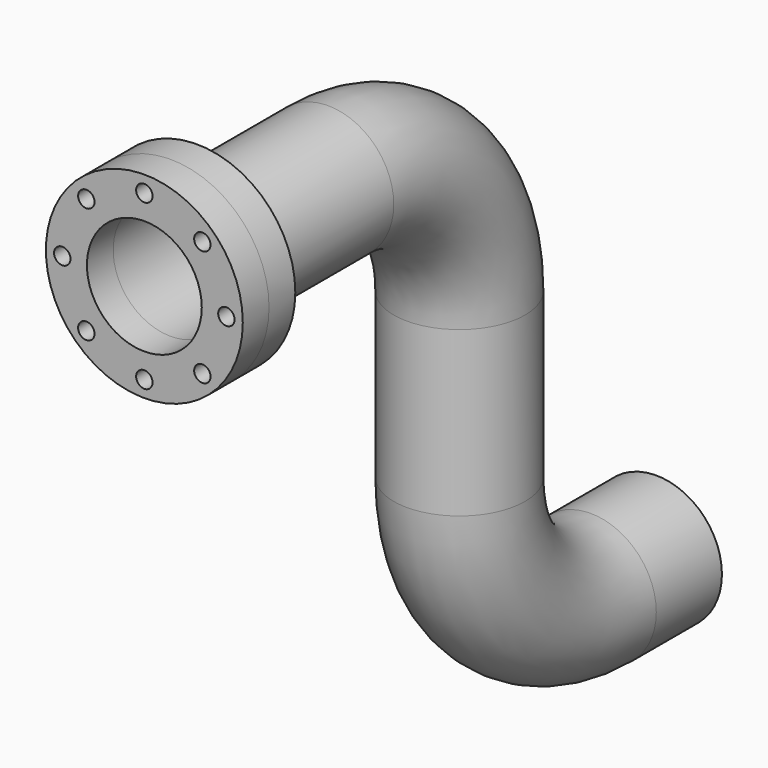
from build123d import *

# Parameters (mm, degrees)
F0_R        = 60
F0_R_2      = 5
F0_R_3      = 35
F1_DEPTH    = 20
F2_R        = 40
F2_R_2      = 35
F1_FACE_R   = 60
F1_FACE_R_2 = 5
F1_FACE_R_3 = 35
F5_DEPTH    = 20


with BuildPart() as f1:
    # F0 (on Front) → F1 (new body)
    with BuildSketch(Plane.XZ):
        Circle(F0_R)
        with Locations((-35.355339, -35.355339)):
            Circle(F0_R_2, mode=Mode.SUBTRACT)
        with Locations((0, -50)):
            Circle(F0_R_2, mode=Mode.SUBTRACT)
        with Locations((35.355339, -35.355339)):
            Circle(F0_R_2, mode=Mode.SUBTRACT)
        with Locations((-50, 0)):
            Circle(F0_R_2, mode=Mode.SUBTRACT)
        with Locations((-35.355339, 35.355339)):
            Circle(F0_R_2, mode=Mode.SUBTRACT)
        Circle(F0_R_3, mode=Mode.SUBTRACT)
        with Locations((50, 0)):
            Circle(F0_R_2, mode=Mode.SUBTRACT)
        with Locations((0, 50)):
            Circle(F0_R_2, mode=Mode.SUBTRACT)
        with Locations((35.355339, 35.355339)):
            Circle(F0_R_2, mode=Mode.SUBTRACT)
    extrude(amount=F1_DEPTH)

    # F4: sweep along a path in F3
    with BuildLine(Plane.YZ) as f4_path:
        Line((0, 0), (100, 0))
        ThreePointArc((100, 0), (170.710678, -29.289322), (200, -100))
        Line((200, -100), (200, -200))
        ThreePointArc((200, -200), (229.289322, -270.710678), (300, -300))
        Line((300, -300), (350, -300))
    # F2 (on Front) → F4 (sweep)
    with BuildSketch(Plane.XZ):
        Circle(F2_R)
        Circle(F2_R_2, mode=Mode.SUBTRACT)
    sweep(path=f4_path.line)


with BuildPart() as f5:
    # F1_face (on face) → F5 (new body)
    with BuildSketch(Plane.XZ.offset(20)):
        Circle(F1_FACE_R)
        with Locations((-35.355339, -35.355339)):
            Circle(F1_FACE_R_2, mode=Mode.SUBTRACT)
        with Locations((0, -50)):
            Circle(F1_FACE_R_2, mode=Mode.SUBTRACT)
        with Locations((35.355339, -35.355339)):
            Circle(F1_FACE_R_2, mode=Mode.SUBTRACT)
        with Locations((-50, 0)):
            Circle(F1_FACE_R_2, mode=Mode.SUBTRACT)
        with Locations((-35.355339, 35.355339)):
            Circle(F1_FACE_R_2, mode=Mode.SUBTRACT)
        Circle(F1_FACE_R_3, mode=Mode.SUBTRACT)
        with Locations((50, 0)):
            Circle(F1_FACE_R_2, mode=Mode.SUBTRACT)
        with Locations((0, 50)):
            Circle(F1_FACE_R_2, mode=Mode.SUBTRACT)
        with Locations((35.355339, 35.355339)):
            Circle(F1_FACE_R_2, mode=Mode.SUBTRACT)
    extrude(amount=F5_DEPTH)


solid = Compound([f1.part, f5.part])
